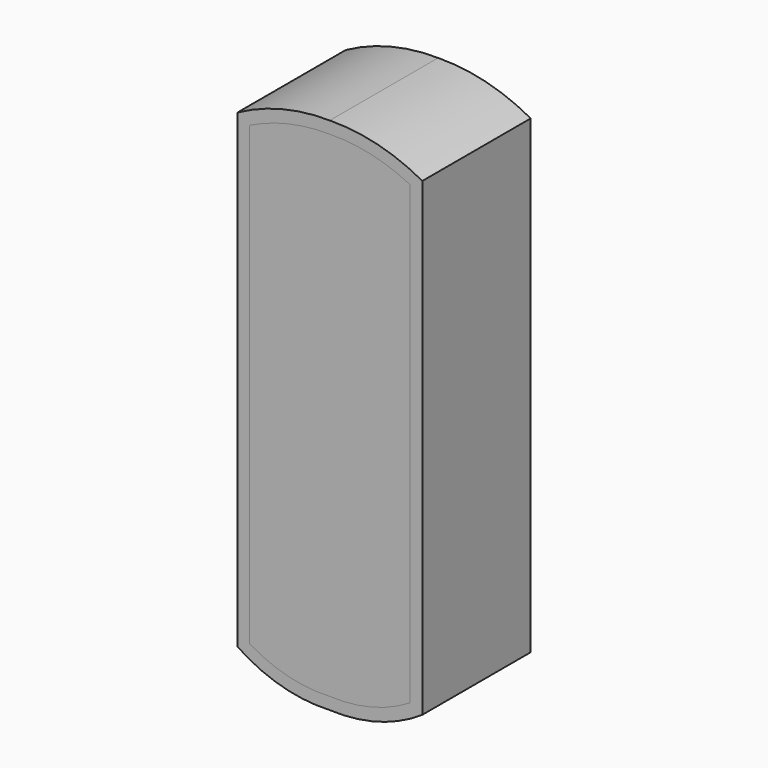
from build123d import *

# Parameters (mm, degrees)
F2_DEPTH  = 2
F3_R      = 3.5
F4_DEPTH  = 22
F6_DEPTH  = 25
F8_DEPTH  = 3
F9_W      = 25
F9_H      = 25
F10_DEPTH = 3
F11_W     = 31.8
F11_H     = 31.8
F11_W_2   = 25
F11_H_2   = 25
F12_DEPTH = 2


with BuildPart() as f2:
    # F1 (on Front) → F2 (new body)
    with BuildSketch(Plane.XZ):
        with BuildLine():
            Line((16.625, -98.074324), (16.625, -3.797799))
            ThreePointArc((16.625, -3.797799), (8.540624, -0.900281), (0, 0))
            ThreePointArc((0, 0), (-8.540624, -0.900281), (-16.625, -3.797799))
            Line((-16.625, -3.797799), (-16.625, -98.074324))
            ThreePointArc((-16.625, -98.074324), (-8.633199, -101.44888), (0, -102.299997))
            ThreePointArc((0, -102.299997), (8.633199, -101.44888), (16.625, -98.074324))
        make_face()
    extrude(amount=-F2_DEPTH)

    # F3 (on face) → F4 (join)
    with BuildSketch(Plane(origin=(0, 2, 0), x_dir=(-1, 0, 0), z_dir=(0, 1, 0))):
        with Locations((0, -43.929432)):
            Circle(F3_R)
    extrude(amount=F4_DEPTH)


with BuildPart() as f6:
    # F5 (on face) → F6 (new body)
    with BuildSketch(Plane.XZ):
        with BuildLine():
            ThreePointArc((0, -104.803155), (9.998027, -103.671593), (19.125, -99.436105))
            Line((19.125, -99.436105), (19.125, -2.288207))
            ThreePointArc((19.125, -2.288207), (9.874208, 1.350978), (0, 2.500247))
            ThreePointArc((0, 2.500247), (-9.874208, 1.350978), (-19.125, -2.288207))
            Line((-19.125, -2.288207), (-19.125, -99.436105))
            ThreePointArc((-19.125, -99.436105), (-9.998027, -103.671593), (0, -104.803155))
        make_face()
        with BuildLine():
            ThreePointArc((16.625, -98.074324), (8.633199, -101.44888), (0, -102.299997))
            ThreePointArc((0, -102.299997), (-8.633199, -101.44888), (-16.625, -98.074324))
            Line((-16.625, -98.074324), (-16.625, -3.797799))
            ThreePointArc((-16.625, -3.797799), (-8.540624, -0.900281), (0, 0))
            ThreePointArc((0, 0), (8.540624, -0.900281), (16.625, -3.797799))
            Line((16.625, -3.797799), (16.625, -98.074324))
        make_face(mode=Mode.SUBTRACT)
    extrude(amount=-F6_DEPTH)

    # F7 (on face) → F8 (join)
    with BuildSketch(Plane(origin=(0, 25, 0), x_dir=(-1, 0, 0), z_dir=(0, 1, 0))):
        with BuildLine():
            ThreePointArc((19.125, -2.288207), (9.874208, 1.350978), (0, 2.500247))
            ThreePointArc((0, 2.500247), (-9.874208, 1.350978), (-19.125, -2.288207))
            Line((-19.125, -2.288207), (-19.125, -99.436105))
            ThreePointArc((-19.125, -99.436105), (-9.998027, -103.671593), (0, -104.803155))
            ThreePointArc((0, -104.803155), (9.998027, -103.671593), (19.125, -99.436105))
            Line((19.125, -99.436105), (19.125, -2.288207))
        make_face()
    extrude(amount=F8_DEPTH)

    # F9 (on face) → F10 (cut)
    with BuildSketch(Plane(origin=(0, 28, 0), x_dir=(-1, 0, 0), z_dir=(0, 1, 0))):
        with Locations((0, -43.929432)):
            Rectangle(F9_W, F9_H)
    extrude(amount=-F10_DEPTH, mode=Mode.SUBTRACT)

    # F11 (on face) → F12 (cut)
    with BuildSketch(Plane(origin=(0, 28, 0), x_dir=(-1, 0, 0), z_dir=(0, 1, 0))):
        with Locations((0, -43.929432)):
            Rectangle(F11_W, F11_H)
        with Locations((0, -43.929432)):
            Rectangle(F11_W_2, F11_H_2, mode=Mode.SUBTRACT)
    extrude(amount=-F12_DEPTH, mode=Mode.SUBTRACT)


solid = Compound([f2.part, f6.part])
